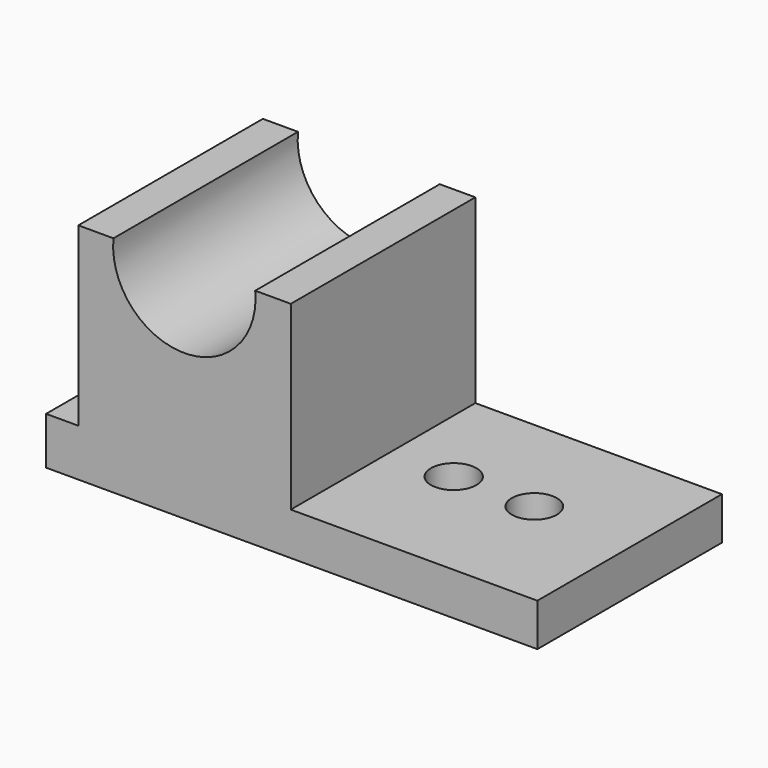
from build123d import *

# Parameters (mm, degrees)
F1_DEPTH = 70
F2_R     = 6.919324
F2_R_2   = 6.841068
F3_DEPTH = 25


with BuildPart() as f1:
    # F0 (on Front) → F1 (new body)
    with BuildSketch(Plane.XZ):
        with BuildLine():
            ThreePointArc((0, 38.422067), (-21.513481, 14.761734), (-43.026961, 38.422067))
            Line((-43.026961, 38.422067), (-53.675774, 38.422067))
            Line((-53.675774, 38.422067), (-53.675774, -15.109803))
            Line((-53.675774, -15.109803), (-63.46117, -15.109803))
            Line((-63.46117, -15.109803), (-63.46117, -29.50009))
            Line((-63.46117, -29.50009), (85.622206, -29.50009))
            Line((85.622206, -29.50009), (85.622206, -16.548831))
            Line((85.622206, -16.548831), (10.792715, -16.548831))
            Line((10.792715, -16.548831), (10.792715, 38.422067))
            Line((10.792715, 38.422067), (0, 38.422067))
        make_face()
    extrude(amount=F1_DEPTH)

    # F2 (on face) → F3 (cut)
    with BuildSketch(Plane.XY.offset(-16.548831)):
        with Locations((30.363506, -32.665953)):
            Circle(F2_R)
        with Locations((54.826993, -32.665953)):
            Circle(F2_R_2)
    extrude(amount=-F3_DEPTH, mode=Mode.SUBTRACT)


solid = f1.part
